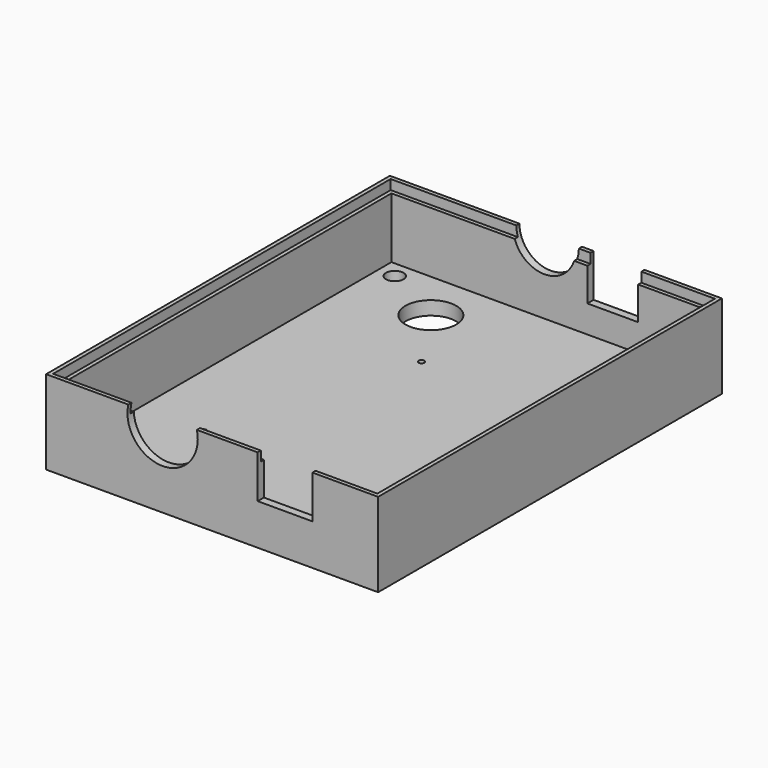
from build123d import *

# Parameters (mm, degrees)
SKETCH_W        = 85
SKETCH_H        = 110
PAD_DEPTH       = 3.5
SKETCH001_R     = 0.75
POCKET_DEPTH    = 9
SKETCH002_R     = 3
POCKET001_DEPTH = 2.5
SKETCH003_W     = 85
SKETCH003_H     = 110
PAD001_DEPTH    = 18
SKETCH004_W     = 81
SKETCH004_H     = 106
POCKET002_DEPTH = 18
SKETCH005_R     = 9
SKETCH005_R_2   = 8
SKETCH005_W     = 14
SKETCH005_H     = 11
SKETCH005_W_2   = 12
SKETCH005_H_2   = 10
POCKET003_DEPTH = 5
SKETCH006_W     = 81
SKETCH006_H     = 106
POCKET004_DEPTH = 18
SKETCH007_R     = 8
SKETCH007_W     = 13
SKETCH007_H     = 11
POCKET005_DEPTH = 5
SKETCH008_R     = 2.25
POCKET006_DEPTH = 5
SKETCH009_W     = 83
SKETCH009_H     = 108
POCKET007_DEPTH = 2.5
SKETCH010_R     = 6.5
POCKET008_DEPTH = 5


with BuildPart() as part:
    # Sketch → Pad (new body)
    with BuildSketch(Plane.XY):
        Rectangle(SKETCH_W, SKETCH_H)
    extrude(amount=PAD_DEPTH)

    # Sketch001 (on Face6 of Pad) → Pocket (cut)
    with BuildSketch(Plane.XY.offset(3.5)):
        with Locations((-24.13, -27.5)):
            Circle(SKETCH001_R)
        with Locations((24.13, -28.96)):
            Circle(SKETCH001_R)
        with Locations((-8.89, 23.11)):
            Circle(SKETCH001_R)
    extrude(amount=-POCKET_DEPTH, mode=Mode.SUBTRACT)

    # Sketch002 (on Face4 of Pocket) → Pocket001 (cut)
    with BuildSketch(Plane(origin=(0, 0, 0), x_dir=(1, 0, 0), z_dir=(0, 0, -1))):
        with Locations((-8.89, -23.11)):
            Circle(SKETCH002_R)
        with Locations((-24.13, 27.5)):
            Circle(SKETCH002_R)
        with Locations((24.13, 28.96)):
            Circle(SKETCH002_R)
    extrude(amount=-POCKET001_DEPTH, mode=Mode.SUBTRACT)

    # Sketch003 (on Face5 of Pocket001) → Pad001 (join)
    with BuildSketch(Plane.XY.offset(3.5)):
        Rectangle(SKETCH003_W, SKETCH003_H)
    extrude(amount=PAD001_DEPTH)

    # Sketch004 (on Face12 of Pad001) → Pocket002 (cut)
    with BuildSketch(Plane.XY.offset(21.5)):
        Rectangle(SKETCH004_W, SKETCH004_H)
    extrude(amount=-POCKET002_DEPTH, mode=Mode.SUBTRACT)

    # Sketch005 (on Face13 of Pocket002) → Pocket003 (cut)
    with BuildSketch(Plane.XZ.offset(55)):
        with Locations((-12.67, 19.5)):
            Circle(SKETCH005_R)
        with Locations((10.303566, 33.5)):
            Circle(SKETCH005_R_2)
        with Locations((18.67, 16)):
            Rectangle(SKETCH005_W, SKETCH005_H)
        with Locations((21.67, 28.5)):
            Rectangle(SKETCH005_W_2, SKETCH005_H_2)
    extrude(amount=-POCKET003_DEPTH, mode=Mode.SUBTRACT)

    # Sketch006 (on Face12 of Pocket003) → Pocket004 (cut)
    with BuildSketch(Plane.XY.offset(21.5)):
        Rectangle(SKETCH006_W, SKETCH006_H)
    extrude(amount=-POCKET004_DEPTH, mode=Mode.SUBTRACT)

    # Sketch007 (on Face5 of Pocket004) → Pocket005 (cut)
    with BuildSketch(Plane(origin=(0, 55, 0), x_dir=(-1, 0, 0), z_dir=(0, 1, 0))):
        with Locations((1.33, 21.5)):
            Circle(SKETCH007_R)
        with Locations((-16.17, 16)):
            Rectangle(SKETCH007_W, SKETCH007_H)
    extrude(amount=-POCKET005_DEPTH, mode=Mode.SUBTRACT)

    # Sketch008 (on Face36 of Pocket005) → Pocket006 (cut)
    with BuildSketch(Plane.XY.offset(3.5)):
        with Locations((-36.21, 48.71)):
            Circle(SKETCH008_R)
        with Locations((36.21, 48.71)):
            Circle(SKETCH008_R)
        with Locations((-36.21, -48.71)):
            Circle(SKETCH008_R)
        with Locations((36.21, -48.71)):
            Circle(SKETCH008_R)
    extrude(amount=-POCKET006_DEPTH, mode=Mode.SUBTRACT)

    # Sketch009 (on Face22 of Pocket006) → Pocket007 (cut)
    with BuildSketch(Plane.XY.offset(21.5)):
        Rectangle(SKETCH009_W, SKETCH009_H)
    extrude(amount=-POCKET007_DEPTH, mode=Mode.SUBTRACT)

    # Sketch010 (on Face24 of Pocket007) → Pocket008 (cut)
    with BuildSketch(Plane.XY.offset(3.5)):
        with Locations((-20, 40)):
            Circle(SKETCH010_R)
    extrude(amount=-POCKET008_DEPTH, mode=Mode.SUBTRACT)


solid = part.part
